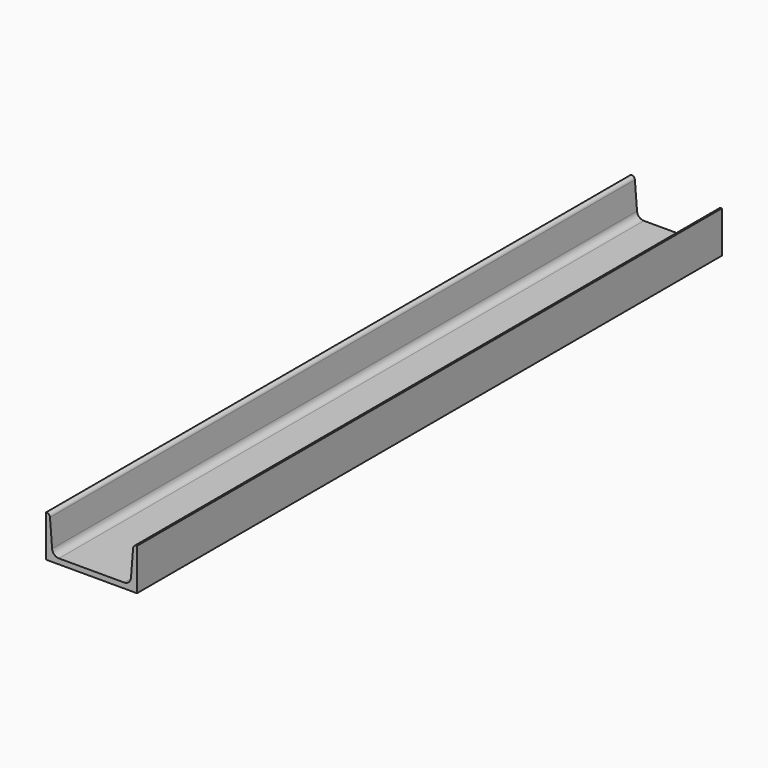
from build123d import *

# Parameters (mm, degrees)
F1_DEPTH = 965


with BuildPart() as f1:
    # F0 (on Front) → F1 (new body)
    with BuildSketch(Plane.XZ):
        with BuildLine():
            Line((0.645623, 55), (0, 55))
            Line((0, 55), (0, 0))
            Line((0, 0), (120, 0))
            Line((120, 0), (120, 55))
            Line((120, 55), (119.354377, 55))
            ThreePointArc((119.354377, 55), (116.301906, 53.806421), (114.868708, 50.858854))
            Line((114.868708, 50.858854), (112.022583, 15.282293))
            ThreePointArc((112.022583, 15.282293), (109.156188, 9.387158), (103.051246, 7))
            Line((103.051246, 7), (16.948754, 7))
            ThreePointArc((16.948754, 7), (10.843812, 9.387158), (7.977417, 15.282293))
            Line((7.977417, 15.282293), (5.131292, 50.858854))
            ThreePointArc((5.131292, 50.858854), (3.698094, 53.806421), (0.645623, 55))
        make_face()
    extrude(amount=F1_DEPTH)


solid = f1.part
